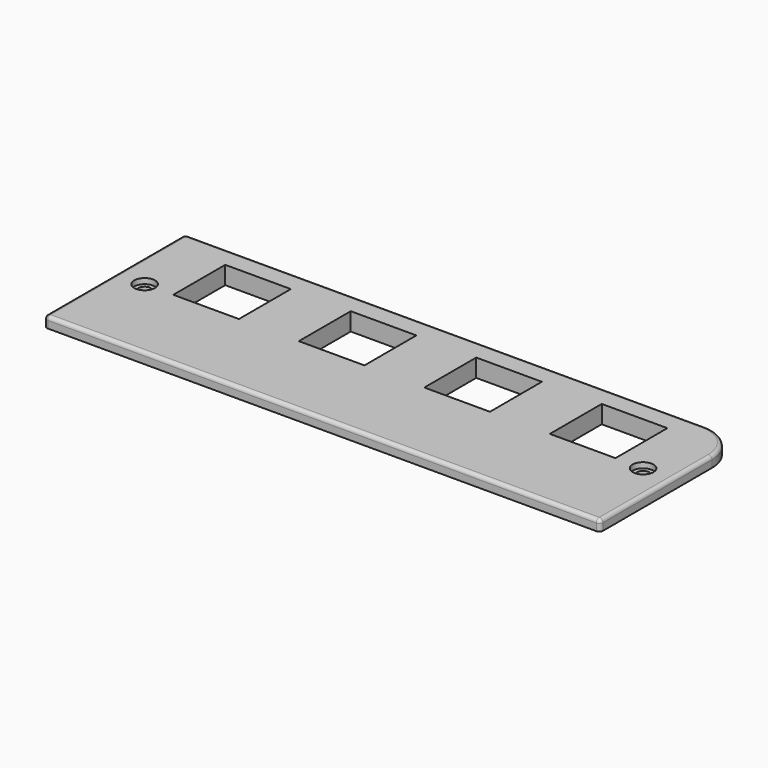
from build123d import *

# Parameters (mm, degrees)
PAD_DEPTH              = 3
SKETCH001_W            = 18.3
SKETCH001_H            = 18.1
POCKET_DEPTH           = 3.001
LINEARPATTERN_COUNT    = 4
LINEARPATTERN_PITCH    = 35
HOLE_D                 = 3.4
HOLE_CBORE_D           = 5.8
HOLE_CBORE_DEPTH       = 1.5
SKETCH004_W            = 22.3
SKETCH004_H            = 22.1
SKETCH004_W_2          = 18.3
SKETCH004_H_2          = 18.1
PAD001_DEPTH           = 2
LINEARPATTERN001_COUNT = 4
LINEARPATTERN001_PITCH = 35
FILLET_R               = 1
FILLET001_R            = 1
FILLET002_R            = 1


with BuildPart() as part:
    # Sketch → Pad (new body)
    with BuildSketch(Plane.XY):
        with BuildLine():
            Line((145, 49), (0, 49))
            Line((0, 49), (0, 0))
            Line((0, 0), (155, 0))
            Line((155, 0), (155, 39))
            ThreePointArc((155, 39), (152.071068, 46.071068), (145, 49))
        make_face()
    extrude(amount=PAD_DEPTH)

    # Sketch001 (on Face7 of Pad) → Pocket (cut, through all)
    with BuildSketch(Plane.XY.offset(3)):
        with Locations((25.15, 34.05)):
            Rectangle(SKETCH001_W, SKETCH001_H)
    pocket = extrude(amount=-POCKET_DEPTH, mode=Mode.SUBTRACT)

    # LinearPattern: Pocket ×4
    with Locations(*[(i * LINEARPATTERN_PITCH, 0, 0) for i in range(1, LINEARPATTERN_COUNT)]):
        add(pocket, mode=Mode.SUBTRACT)

    # Hole (through all)
    with Locations(Plane.XY.offset(3)):
        with Locations((8, 25), (147, 25)):
            CounterBoreHole(HOLE_D / 2, HOLE_CBORE_D / 2, HOLE_CBORE_DEPTH)

    # Sketch004 (on Face4 of Hole) → Pad001 (join)
    with BuildSketch(Plane(origin=(0, 0, 0), x_dir=(1, 0, 0), z_dir=(0, 0, -1))):
        with Locations((25.15, -34.05)):
            Rectangle(SKETCH004_W, SKETCH004_H)
        with Locations((25.15, -34.05)):
            Rectangle(SKETCH004_W_2, SKETCH004_H_2, mode=Mode.SUBTRACT)
    pad001 = extrude(amount=PAD001_DEPTH)

    # LinearPattern001: Pad001 ×4
    with Locations(*[(i * LINEARPATTERN001_PITCH, 0, 0) for i in range(1, LINEARPATTERN001_COUNT)]):
        add(pad001)

    # Fillet
    fillet_edges = [part.edges().sort_by_distance(p)[0] for p in [
        (72.5, 49, 3),
    ]]
    fillet(fillet_edges, radius=FILLET_R)

    # Fillet001
    fillet001_edges = [part.edges().sort_by_distance(p)[0] for p in [
        (77, 0, 3),
    ]]
    fillet(fillet001_edges, radius=FILLET001_R)

    # Fillet002
    fillet002_edges = [part.edges().sort_by_distance(p)[0] for p in [
        (0, 24.5, 3),
    ]]
    fillet(fillet002_edges, radius=FILLET002_R)


solid = part.part
